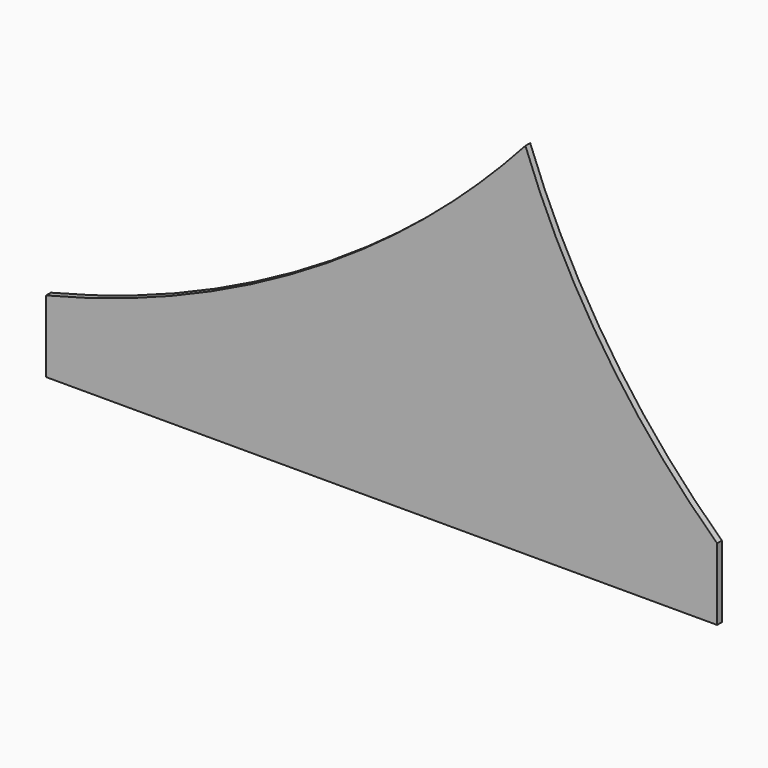
from build123d import *

# Parameters (mm, degrees)
F0_W     = 76.2
F0_H     = 152.4
F1_DEPTH = 6.35


with BuildPart() as f1:
    # F0 (on Front) → F1 (new body)
    with BuildSketch(Plane.XZ):
        with BuildLine():
            ThreePointArc((431.8, 228.6), (384.9684315638, 189.0388261382), (335.816842589, 152.4))
            Line((335.816842589, 152.4), (431.8, 152.4))
            Line((431.8, 152.4), (431.8, 228.6))
        make_face()
        with BuildLine():
            ThreePointArc((335.816842589, 152.4), (174.9426840899, 60.6998430323), (0, 0))
            Line((0, 0), (431.8, 0))
            Line((431.8, 0), (431.8, 152.4))
            Line((431.8, 152.4), (335.816842589, 152.4))
        make_face()
        with BuildLine():
            Line((431.8, 228.6), (431.8, 152.4))
            Line((431.8, 152.4), (508, 152.4))
            Line((508, 152.4), (508, 304.8))
            ThreePointArc((508, 304.8), (470.9198045547, 265.6801954453), (431.8, 228.6))
        make_face()
        with BuildLine():
            ThreePointArc((584.2, 152.4), (542.0295057113, 226.5647528557), (508, 304.8))
            Line((508, 304.8), (508, 152.4))
            Line((508, 152.4), (584.2, 152.4))
        make_face()
        with Locations((546.1, 76.2)):
            Rectangle(F0_W, F0_H)
        with Locations((469.9, 76.2)):
            Rectangle(F0_W, F0_H)
        with BuildLine():
            Line((584.2, 152.4), (584.2, 0))
            Line((584.2, 0), (711.2, 0))
            ThreePointArc((711.2, 0), (642.9559595797, 72.246632983), (584.2, 152.4))
        make_face()
        Polygon((431.8, 0), (0, 0), (0, -76.2), (711.2, -76.2), (711.2, 0), (584.2, 0), (508, 0), align=None)
    extrude(amount=F1_DEPTH)


solid = f1.part
